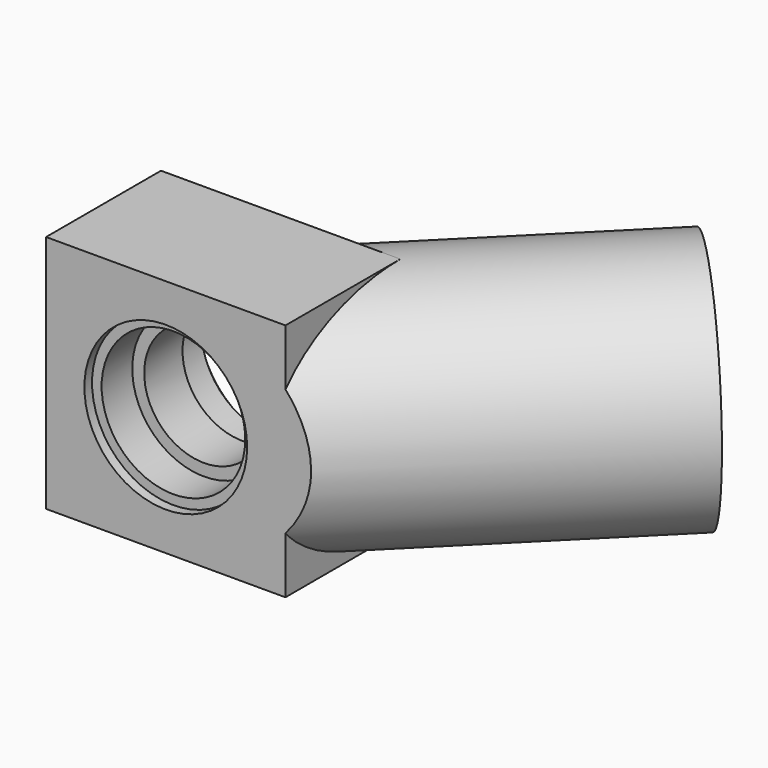
from build123d import *

# Parameters (mm, degrees)
F0_W          = 20
F0_H          = 20
F1_DEPTH      = 12
F3_R          = 10
F4_DEPTH      = 20
F4_DEPTH_BACK = 9
F5_R          = 6.8
F6_DEPTH      = 0.8
F7_R          = 6.8
F8_DEPTH      = 0.8
F8_DEPTH_BACK = 25
F9_R          = 6
F10_DEPTH     = 3.2
F11_R         = 6
F12_DEPTH     = 3.2
F13_R         = 5
F14_DEPTH     = 4
F15_W         = 6.5863579512
F15_H         = 20
F16_DEPTH     = 25
F17_R         = 8
F18_DEPTH     = 21


with BuildPart() as f1:
    # F0 (on Front) → F1 (new body)
    with BuildSketch(Plane.XZ):
        Rectangle(F0_W, F0_H)
    extrude(amount=F1_DEPTH)

    # F3 (on face) → F4 (join, two sides)
    with BuildSketch(Plane(origin=(5, 5, 0), x_dir=(0.7071067812, -0.7071067812, 0), z_dir=(-0.7071067812, -0.7071067812, 0))) as f4_sk:
        with Locations((7.0710678119, 0)):
            Circle(F3_R)
    extrude(amount=-F4_DEPTH)
    extrude(f4_sk.sketch, amount=F4_DEPTH_BACK)

    # F5 (on face) → F6 (cut)
    with BuildSketch(Plane.XZ.offset(12)):
        Circle(F5_R)
    extrude(amount=-F6_DEPTH, mode=Mode.SUBTRACT)

    # F7 (on face) → F8 (cut, two sides)
    with BuildSketch(Plane(origin=(0, 0, 0), x_dir=(-1, 0, 0), z_dir=(0, 1, 0))) as f8_sk:
        Circle(F7_R)
    extrude(amount=-F8_DEPTH, mode=Mode.SUBTRACT)
    extrude(f8_sk.sketch, amount=F8_DEPTH_BACK, mode=Mode.SUBTRACT)

    # F9 (on face) → F10 (cut)
    with BuildSketch(Plane(origin=(0, -0.8, 0), x_dir=(-1, 0, 0), z_dir=(0, 1, 0))):
        Circle(F9_R)
    extrude(amount=-F10_DEPTH, mode=Mode.SUBTRACT)

    # F11 (on face) → F12 (cut)
    with BuildSketch(Plane.XZ.offset(11.2)):
        Circle(F11_R)
    extrude(amount=-F12_DEPTH, mode=Mode.SUBTRACT)

    # F13 (on face) → F14 (cut, through all)
    with BuildSketch(Plane.XZ.offset(8)):
        Circle(F13_R)
    extrude(amount=-F14_DEPTH, mode=Mode.SUBTRACT)

    # F15 (on Right) → F16 (cut)
    with BuildSketch(Plane.YZ):
        with Locations((-15.2931789756, 0)):
            Rectangle(F15_W, F15_H)
    extrude(amount=F16_DEPTH, mode=Mode.SUBTRACT)

    # F17 (on face) → F18 (cut)
    with BuildSketch(Plane(origin=(19.1421356237, 19.1421356237, 0), x_dir=(-0.7071067812, 0.7071067812, 0), z_dir=(0.7071067812, 0.7071067812, 0))):
        with Locations((-7.0710678119, 0)):
            Circle(F17_R)
    extrude(amount=-F18_DEPTH, mode=Mode.SUBTRACT)


solid = f1.part
